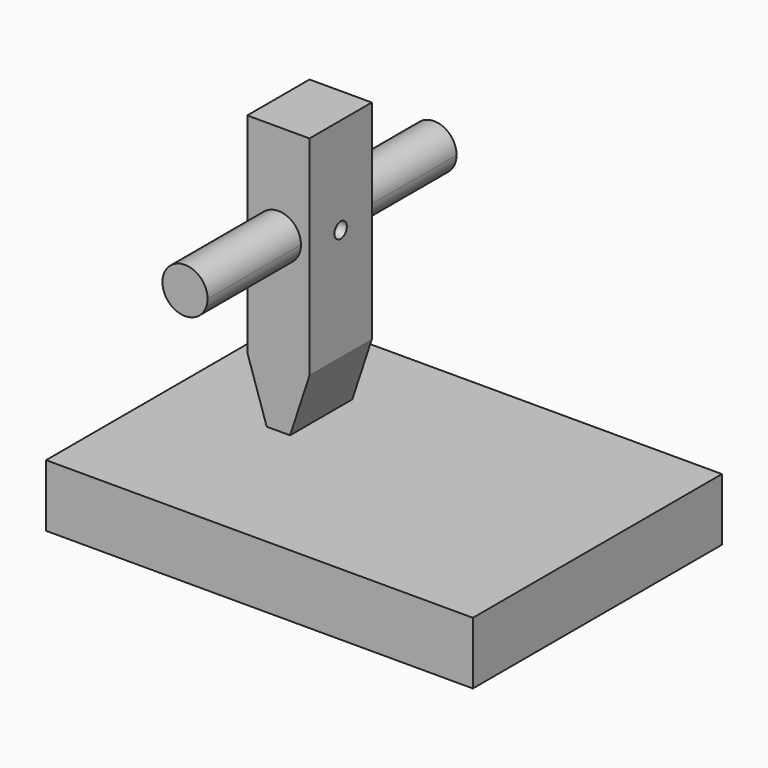
from build123d import *

# Parameters (mm, degrees)
F1_DEPTH = 63.5
F2_R     = 9.2075
F3_DEPTH = 15.875
F5_DEPTH = 79.376
F6_R     = 3.175
F7_DEPTH = 69.3790854702


with BuildPart() as f1:
    # F0 (on Front) → F1 (new body, symmetric)
    with BuildSketch(Plane.XZ):
        with BuildLine():
            ThreePointArc((9.5242206007, 80.2564680907), (16.0349062885, 82.9532824029), (18.7317206007, 89.4639680907))
            ThreePointArc((18.7317206007, 89.4639680907), (3.0135349129, 95.9746537785), (9.5242206007, 80.2564680907))
        make_face()
    extrude(amount=F1_DEPTH, both=True)


with BuildPart() as f1b:
    # F0 (on Front) → F1, piece 2 (new body, symmetric)
    with BuildSketch(Plane.XZ):
        Polygon((126.975029707, 10.0889680907), (9.5242206007, 10.0889680907), (-47.1530854702, 10.0889680907), (-47.1530854702, -15.3090823442), (126.975029707, -15.3090823442), align=None)
    extrude(amount=F1_DEPTH, both=True)


with BuildPart() as f3:
    # F2 (on Front) → F3 (new body, symmetric)
    with BuildSketch(Plane.XZ):
        Polygon((22.225, 19.6139680907), (22.225, 128.8339680907), (9.525, 128.8339680907), (-3.175, 128.8339680907), (-3.175, 19.6139680907), (9.525, 19.6139680907), align=None)
        with Locations((9.5242206007, 89.4639680907)):
            Circle(F2_R, mode=Mode.SUBTRACT)
    extrude(amount=F3_DEPTH, both=True)

    # F4 (on face) → F5 (cut, through all)
    with BuildSketch(Plane.XZ.offset(15.875)):
        Polygon((-3.175, 19.6139680907), (4.7625, 19.6139680907), (-3.175, 43.7418791845), align=None)
        Polygon((22.225, 43.7418791845), (14.2875, 19.6139680907), (22.225, 19.6139680907), align=None)
    extrude(amount=-F5_DEPTH, mode=Mode.SUBTRACT)


with BuildPart() as f7_tool:
    # F6 (on face) → F7 (new body, through all)
    with BuildSketch(Plane.YZ.offset(22.225)):
        with Locations((0, 89.4639680907)):
            Circle(F6_R)
    extrude(amount=-F7_DEPTH)


with BuildPart() as f1_1:
    add(f1.part)

    # F7: cut by f7_tool
    add(f7_tool.part, mode=Mode.SUBTRACT)


with BuildPart() as f3_1:
    add(f3.part)

    # F7: cut by f7_tool
    add(f7_tool.part, mode=Mode.SUBTRACT)


solid = Compound([f1b.part, f1_1.part, f3_1.part])
